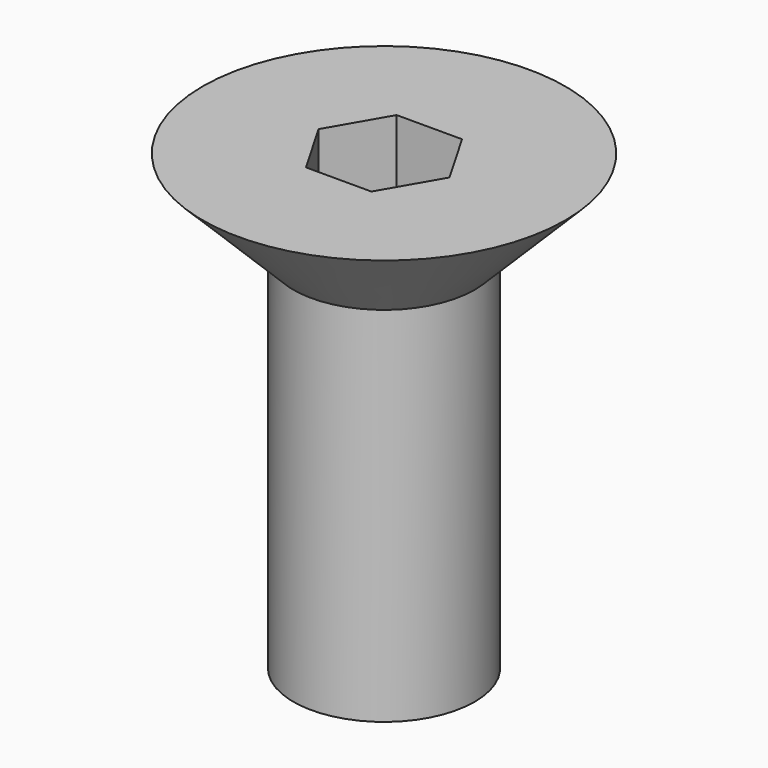
from build123d import *

# Parameters (mm, degrees)
F3_DEPTH = 2


with BuildPart() as f1:
    # F0 (on Front) → F1 (revolve)
    with BuildSketch(Plane.XZ):
        Polygon((4, 0), (0, 0), (0, -10), (2, -10), (2, -2), align=None)
    revolve(axis=Axis((0, 0, -5), (0, 0, 1)))

    # F2 (on face) → F3 (cut)
    with BuildSketch(Plane.XY):
        Polygon((0.721688, 1.25), (-0.721688, 1.25), (-1.443376, 0), (-0.721688, -1.25), (0.721688, -1.25), (1.443376, 0), align=None)
    extrude(amount=-F3_DEPTH, mode=Mode.SUBTRACT)


solid = f1.part
